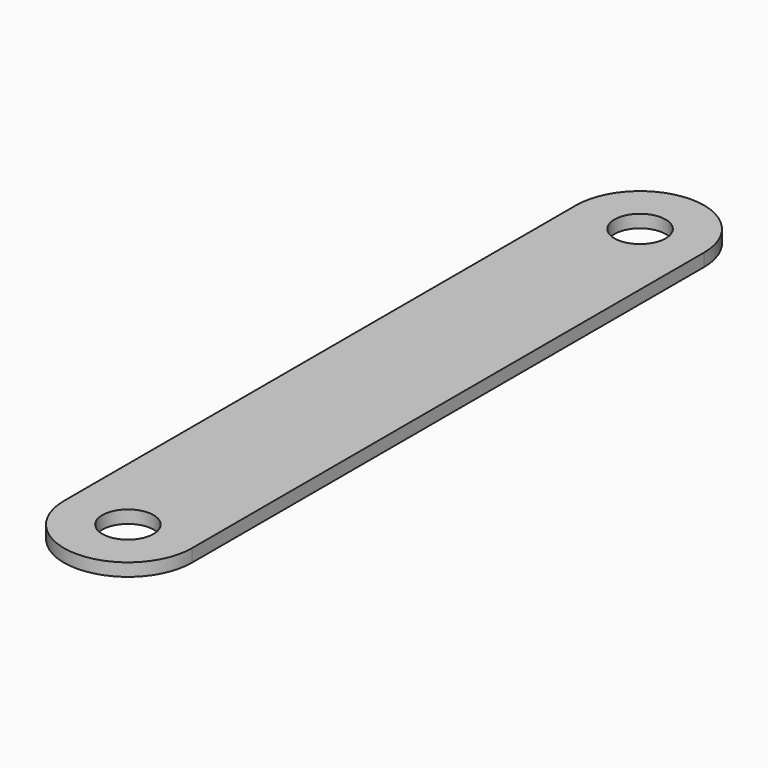
from build123d import *

# Parameters (mm, degrees)
F0_W     = 20
F0_H     = 200
F1_DEPTH = 2
F2_R     = 4
F3_DEPTH = 12.5
F4_R     = 6
F4_R_2   = 4
F5_DEPTH = 2
F8_DEPTH = 25


with BuildPart() as f1:
    # F0 (on Top) → F1 (new body)
    with BuildSketch(Plane.XY):
        Rectangle(F0_W, F0_H)
        with BuildLine():
            Line((-10, 100), (10, 100))
            ThreePointArc((10, 100), (0, 110), (-10, 100))
        make_face()
        with BuildLine():
            ThreePointArc((-10, -100), (0, -110), (10, -100))
            Line((10, -100), (-10, -100))
        make_face()
    extrude(amount=F1_DEPTH)

    # F2 (on Top) → F3 (cut, symmetric)
    with BuildSketch(Plane.XY):
        with Locations((0, 100)):
            Circle(F2_R)
        Circle(F2_R)
        with Locations((0, -100)):
            Circle(F2_R)
    extrude(amount=F3_DEPTH, both=True, mode=Mode.SUBTRACT)

    # F7 (on face) → F8 (cut)
    with BuildSketch(Plane.XY.offset(2)):
        with BuildLine():
            ThreePointArc((10, 0), (0, -10), (-10, 0))
            Line((-10, 0), (-10, -100))
            ThreePointArc((-10, -100), (0, -110), (10, -100))
            Line((10, -100), (10, 0))
        make_face()
    extrude(amount=-F8_DEPTH, mode=Mode.SUBTRACT)


with BuildPart() as f5:
    # F4 (on face) → F5 (new body)
    with BuildSketch(Plane.XY.offset(2)):
        Circle(F4_R)
        Circle(F4_R_2, mode=Mode.SUBTRACT)
    extrude(amount=F5_DEPTH)


solid = f1.part
